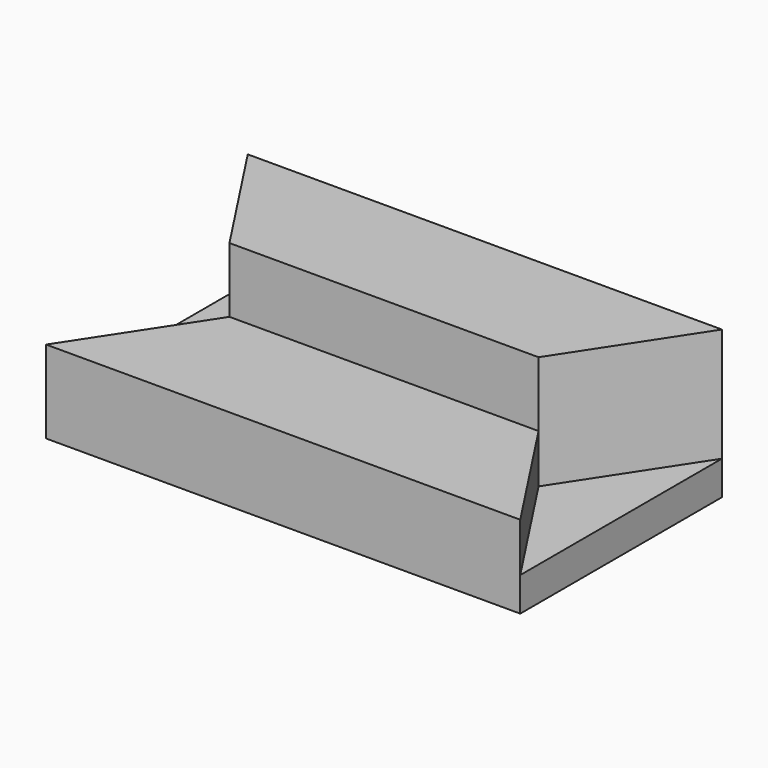
from build123d import *

# Parameters (mm, degrees)
F0_W     = 81.5585851669
F0_H     = 43.3602575213
F1_DEPTH = 25.4
F3_DEPTH = 19.558
F5_DEPTH = 11.176


with BuildPart() as f1:
    # F0 (on Top) → F1 (new body)
    with BuildSketch(Plane.XY):
        with Locations((2.322871238, -4.1295485571)):
            Rectangle(F0_W, F0_H)
    extrude(amount=F1_DEPTH)

    # F2 (on face) → F3 (cut)
    with BuildSketch(Plane.XY.offset(25.4)):
        Polygon((-24.2610964924, -4.1295485571), (-38.4564213455, 17.5505802035), (-38.4564213455, -25.8096773177), align=None)
        Polygon((43.1021638215, -25.8096773177), (43.1021638215, 17.5505802035), (28.906840831, -4.1295485571), align=None)
    extrude(amount=-F3_DEPTH, mode=Mode.SUBTRACT)

    # F4 (on face) → F5 (cut)
    with BuildSketch(Plane.XY.offset(25.4)):
        Polygon((-24.2610964924, -4.1295485571), (-38.4564213455, -25.8096773177), (43.1021638215, -25.8096773177), (28.906840831, -4.1295485571), align=None)
    extrude(amount=-F5_DEPTH, mode=Mode.SUBTRACT)


solid = f1.part
